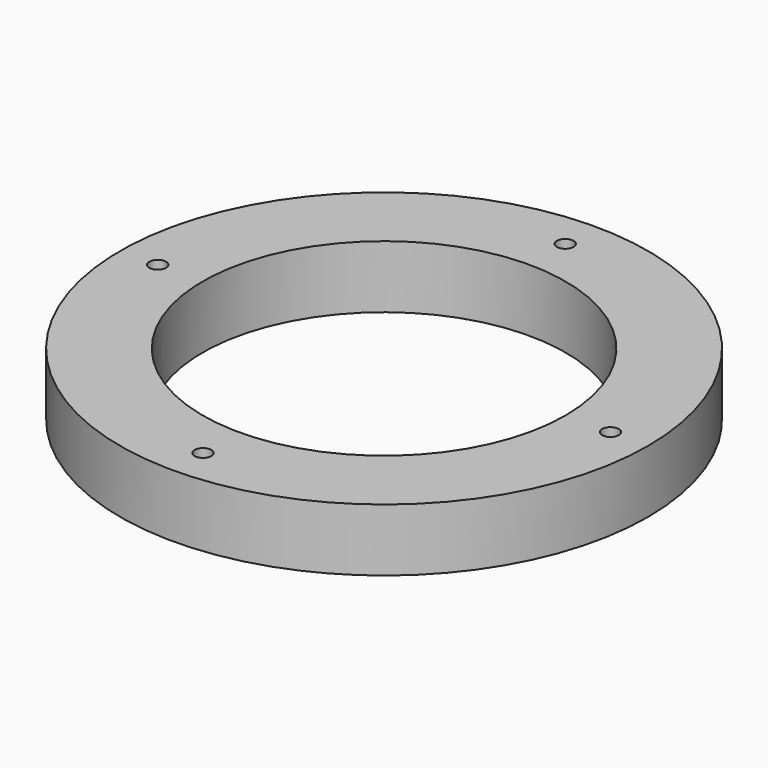
from build123d import *

# Parameters (mm, degrees)
F2_R     = 4
F3_DEPTH = 30.001


with BuildPart() as f1:
    # F0 (on Front) → F1 (revolve)
    with BuildSketch(Plane.XZ):
        with BuildLine():
            Line((87, 30), (87, 0))
            Line((87, 0), (92, 0))
            ThreePointArc((92, 0), (93.994377, 1.850134), (95.988754, 0))
            Line((95.988754, 0), (126.56137, 0))
            Line((126.56137, 0), (126.56137, 30))
            Line((126.56137, 30), (87, 30))
        make_face()
    revolve(axis=Axis((0, 0, 3.579337), (0, 0, 1)))

    # F2 (on face) → F3 (cut, through all)
    with BuildSketch(Plane.XY.offset(30)):
        with Locations((108.56137, 0)):
            Circle(F2_R)
        with Locations((0, 108.56137)):
            Circle(F2_R)
        with Locations((-108.56137, 0)):
            Circle(F2_R)
        with Locations((0, -108.56137)):
            Circle(F2_R)
    extrude(amount=-F3_DEPTH, mode=Mode.SUBTRACT)


solid = f1.part
